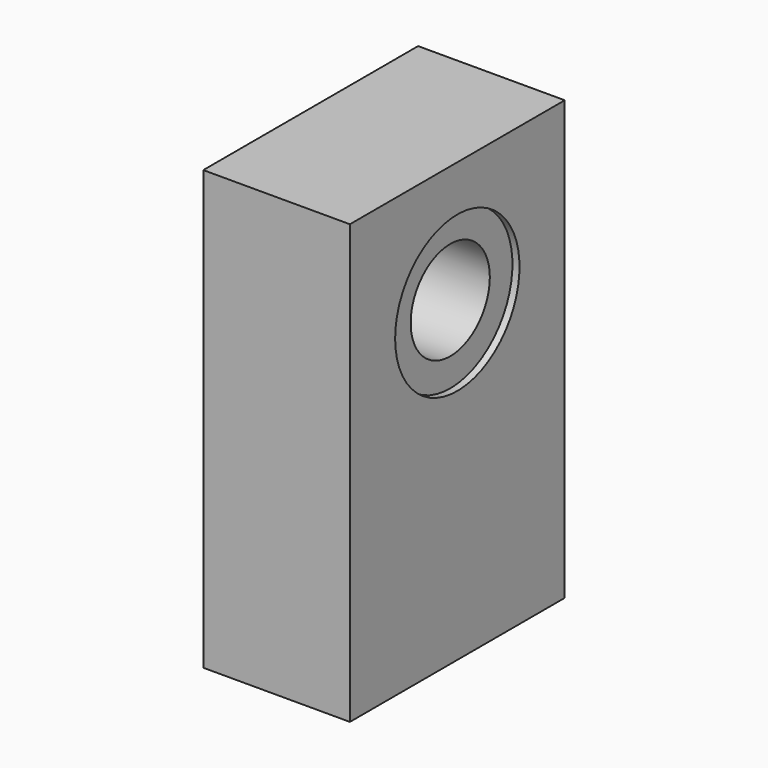
from build123d import *

# Parameters (mm, degrees)
F0_W      = 38
F0_H      = 62
F1_DEPTH  = 20.75
F2_R      = 1.25
F2_R_2    = 7
F3_DEPTH  = 3.85
F4_DEPTH  = 7.8
F5_DEPTH  = 20.751
F6_R      = 11
F6_R_2    = 7
F7_DEPTH  = 1
F9_W      = 20.75
F9_H      = 62
F10_DEPTH = 38.001
F11_R     = 1.75
F12_DEPTH = 4


with BuildPart() as f1:
    # F0 (on Right) → F1 (new body)
    with BuildSketch(Plane.YZ):
        Rectangle(F0_W, F0_H)
    extrude(amount=F1_DEPTH)

    # F2 (on face) → F3 (cut)
    with BuildSketch(Plane.YZ.offset(20.75)):
        with BuildLine():
            ThreePointArc((-4.48197, 3.728898), (-2.769231, 1.823898), (-0.383414, 2.75684))
            ThreePointArc((-0.383414, 2.75684), (2.480769, 23.959841), (-4.48197, 3.728898))
        make_face()
        with Locations((-2.25, 4.013167)):
            Circle(F2_R, mode=Mode.SUBTRACT)
        with Locations((0, 13.5)):
            Circle(F2_R_2, mode=Mode.SUBTRACT)
    extrude(amount=-F3_DEPTH, mode=Mode.SUBTRACT)

    # F2 (on face) → F4 (cut)
    with BuildSketch(Plane.YZ.offset(20.75)):
        with Locations((-2.25, 4.013167)):
            Circle(F2_R)
        with Locations((8.600429, 25.240833)):
            Circle(F2_R)
    extrude(amount=-F4_DEPTH, mode=Mode.SUBTRACT)

    # F2 (on face) → F5 (cut, through all)
    with BuildSketch(Plane.YZ.offset(20.75)):
        with Locations((0, 13.5)):
            Circle(F2_R_2)
    extrude(amount=-F5_DEPTH, mode=Mode.SUBTRACT)

    # F6 (on face) → F7 (cut)
    with BuildSketch(Plane(origin=(0, 0, 0), x_dir=(0, -1, 0), z_dir=(-1, 0, 0))):
        with Locations((0, 13.5)):
            Circle(F6_R)
        with Locations((0, 13.5)):
            Circle(F6_R_2, mode=Mode.SUBTRACT)
    extrude(amount=-F7_DEPTH, mode=Mode.SUBTRACT)

    # F8: F1 across plane


with BuildPart() as f1_1:
    add(f1.part)
    add(f1.part.mirror(Plane.YZ))

    # F9 (on face) → F10 (cut, through all)
    with BuildSketch(Plane.XZ.offset(19)):
        with Locations((10.375, 0)):
            Rectangle(F9_W, F9_H)
    extrude(amount=-F10_DEPTH, mode=Mode.SUBTRACT)

    # F11 (on face) → F12 (cut)
    with BuildSketch(Plane(origin=(0, 19, 0), x_dir=(-1, 0, 0), z_dir=(0, 1, 0))):
        with Locations((4.25, 23.25)):
            Circle(F11_R)
        with Locations((4.25, -14.25)):
            Circle(F11_R)
    extrude(amount=-F12_DEPTH, mode=Mode.SUBTRACT)


solid = f1_1.part
